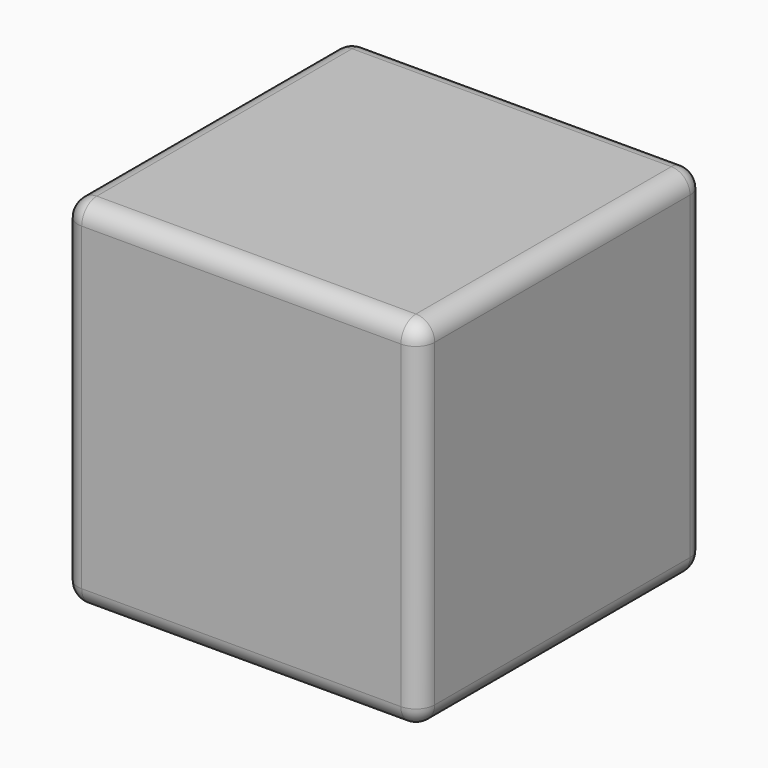
from build123d import *

# Parameters (mm, degrees)
F0_W     = 19
F0_H     = 19
F1_DEPTH = 9.5
F3_START = -2
F2_W     = 15
F2_H     = 15
F3_DEPTH = 15
F5_R     = 1
F4_R     = 1.5
F6_DEPTH = 2


with BuildPart() as f1:
    # F0 (on Top) → F1 (new body, symmetric)
    with BuildSketch(Plane.XY):
        Rectangle(F0_W, F0_H)
    extrude(amount=F1_DEPTH, both=True)

    # F2 (on face) → F3 (cut)
    with BuildSketch(Plane(origin=(-9.5, 0, 0), x_dir=(0, -1, 0), z_dir=(-1, 0, 0)).offset(F3_START)):
        Rectangle(F2_W, F2_H)
    extrude(amount=-F3_DEPTH, mode=Mode.SUBTRACT)

    # F5
    f5_edges = [f1.edges().sort_by_distance(p)[0] for p in [
        (-9.5, 0, 9.5),
        (0, -9.5, 9.5),
        (9.5, 0, 9.5),
        (0, 9.5, 9.5),
        (-9.5, 9.5, 0),
        (9.5, 9.5, 0),
        (0, 9.5, -9.5),
        (9.5, -9.5, 0),
        (0, -9.5, -9.5),
        (9.5, 0, -9.5),
        (-9.5, -9.5, 0),
        (-9.5, 0, -9.5),
    ]]
    fillet(f5_edges, radius=F5_R)

    # F4 (on face) → F6 (cut)
    with BuildSketch(Plane(origin=(-9.5, 0, 0), x_dir=(0, -1, 0), z_dir=(-1, 0, 0))):
        Circle(F4_R)
    extrude(amount=-F6_DEPTH, mode=Mode.SUBTRACT)


solid = f1.part
